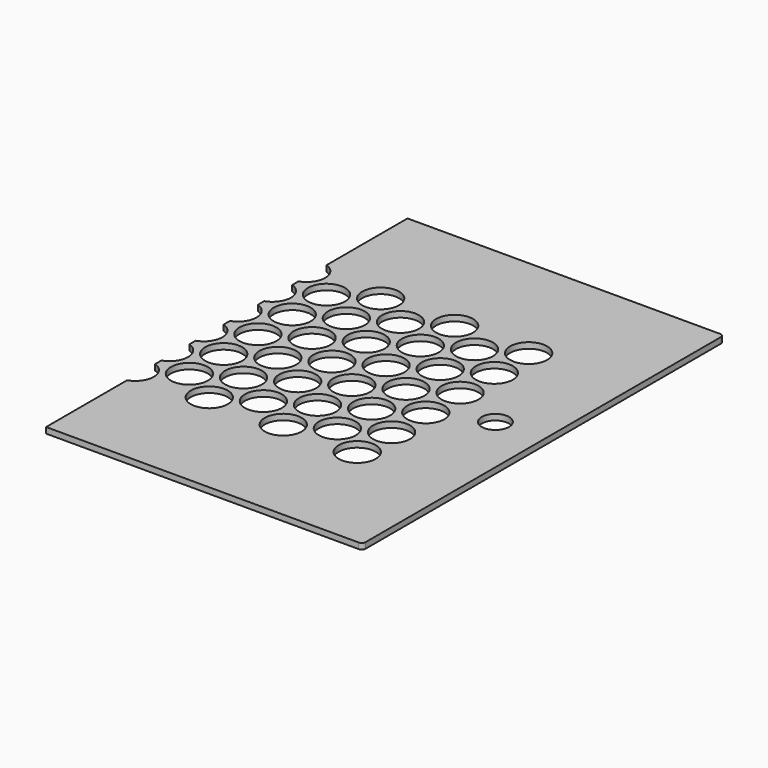
from build123d import *

# Parameters (mm, degrees)
SKETCH058_W     = 445
SKETCH058_H     = 232
PAD022_DEPTH    = 3
SKETCH059_R     = 9.5
POCKET036_DEPTH = 5
FILLET007_R     = 2
SKETCH060_R     = 7
POCKET037_DEPTH = 10.001
SKETCH079_W     = 462.91922
SKETCH079_H     = 530.257522
POCKET051_DEPTH = 5


with BuildPart() as part:
    # Sketch058 → Pad022 (new body)
    with BuildSketch(Plane.XY):
        Rectangle(SKETCH058_W, SKETCH058_H)
    extrude(amount=PAD022_DEPTH)

    # Sketch059 (on Face6 of Pad022) → Pocket036 (cut)
    with BuildSketch(Plane.XY.offset(3)):
        with Locations((-171, 55)):
            Circle(SKETCH059_R)
        with Locations((-171, 33)):
            Circle(SKETCH059_R)
        with Locations((-171, 11)):
            Circle(SKETCH059_R)
        with Locations((-171, -11)):
            Circle(SKETCH059_R)
        with Locations((-171, -33)):
            Circle(SKETCH059_R)
        with Locations((-171, -55)):
            Circle(SKETCH059_R)
        with Locations((-152, 44)):
            Circle(SKETCH059_R)
        with Locations((-152, 22)):
            Circle(SKETCH059_R)
        with Locations((-152, 0)):
            Circle(SKETCH059_R)
        with Locations((-152, -22)):
            Circle(SKETCH059_R)
        with Locations((-152, -44)):
            Circle(SKETCH059_R)
        with Locations((-133, 55)):
            Circle(SKETCH059_R)
        with Locations((-133, 33)):
            Circle(SKETCH059_R)
        with Locations((-133, 11)):
            Circle(SKETCH059_R)
        with Locations((-133, -11)):
            Circle(SKETCH059_R)
        with Locations((-133, -33)):
            Circle(SKETCH059_R)
        with Locations((-133, -55)):
            Circle(SKETCH059_R)
        with Locations((-114, 44)):
            Circle(SKETCH059_R)
        with Locations((-114, 22)):
            Circle(SKETCH059_R)
        with Locations((-114, 0)):
            Circle(SKETCH059_R)
        with Locations((-114, -22)):
            Circle(SKETCH059_R)
        with Locations((-114, -44)):
            Circle(SKETCH059_R)
        with Locations((-95, 55)):
            Circle(SKETCH059_R)
        with Locations((-95, 33)):
            Circle(SKETCH059_R)
        with Locations((-95, 11)):
            Circle(SKETCH059_R)
        with Locations((-95, -11)):
            Circle(SKETCH059_R)
        with Locations((-95, -33)):
            Circle(SKETCH059_R)
        with Locations((-95, -55)):
            Circle(SKETCH059_R)
        with Locations((-76, -44)):
            Circle(SKETCH059_R)
        with Locations((-76, -22)):
            Circle(SKETCH059_R)
        with Locations((-76, 0)):
            Circle(SKETCH059_R)
        with Locations((-76, 22)):
            Circle(SKETCH059_R)
        with Locations((-76, 44)):
            Circle(SKETCH059_R)
        with Locations((-57, 55)):
            Circle(SKETCH059_R)
        with Locations((-57, 33)):
            Circle(SKETCH059_R)
        with Locations((-57, 11)):
            Circle(SKETCH059_R)
        with Locations((-57, -11)):
            Circle(SKETCH059_R)
        with Locations((-57, -33)):
            Circle(SKETCH059_R)
        with Locations((-38, 44)):
            Circle(SKETCH059_R)
        with Locations((-38, 22)):
            Circle(SKETCH059_R)
        with Locations((-38, 0)):
            Circle(SKETCH059_R)
        with Locations((-38, -22)):
            Circle(SKETCH059_R)
        with Locations((-38, -44)):
            Circle(SKETCH059_R)
        with Locations((-57, -55)):
            Circle(SKETCH059_R)
        with Locations((-19, 55)):
            Circle(SKETCH059_R)
        with Locations((-19, 33)):
            Circle(SKETCH059_R)
        with Locations((-19, 11)):
            Circle(SKETCH059_R)
        with Locations((-19, -11)):
            Circle(SKETCH059_R)
        with Locations((-19, -33)):
            Circle(SKETCH059_R)
        with Locations((-19, -55)):
            Circle(SKETCH059_R)
        with Locations((0, -44)):
            Circle(SKETCH059_R)
        with Locations((0, -22)):
            Circle(SKETCH059_R)
        Circle(SKETCH059_R)
        with Locations((0, 22)):
            Circle(SKETCH059_R)
        with Locations((0, 44)):
            Circle(SKETCH059_R)
        with Locations((19, 55)):
            Circle(SKETCH059_R)
        with Locations((19, 33)):
            Circle(SKETCH059_R)
        with Locations((19, 11)):
            Circle(SKETCH059_R)
        with Locations((19, -11)):
            Circle(SKETCH059_R)
        with Locations((19, -33)):
            Circle(SKETCH059_R)
        with Locations((19, -55)):
            Circle(SKETCH059_R)
        with Locations((38, -44)):
            Circle(SKETCH059_R)
        with Locations((38, -22)):
            Circle(SKETCH059_R)
        with Locations((38, 0)):
            Circle(SKETCH059_R)
        with Locations((38, 22)):
            Circle(SKETCH059_R)
        with Locations((38, 44)):
            Circle(SKETCH059_R)
        with Locations((57, 55)):
            Circle(SKETCH059_R)
        with Locations((57, 33)):
            Circle(SKETCH059_R)
        with Locations((57, 11)):
            Circle(SKETCH059_R)
        with Locations((57, -11)):
            Circle(SKETCH059_R)
        with Locations((76, 0)):
            Circle(SKETCH059_R)
        with Locations((76, 22)):
            Circle(SKETCH059_R)
        with Locations((76, 44)):
            Circle(SKETCH059_R)
        with Locations((57, -33)):
            Circle(SKETCH059_R)
        with Locations((57, -55)):
            Circle(SKETCH059_R)
        with Locations((76, -44)):
            Circle(SKETCH059_R)
        with Locations((76, -22)):
            Circle(SKETCH059_R)
        with Locations((95, 55)):
            Circle(SKETCH059_R)
        with Locations((95, 33)):
            Circle(SKETCH059_R)
        with Locations((95, 11)):
            Circle(SKETCH059_R)
        with Locations((95, -11)):
            Circle(SKETCH059_R)
        with Locations((95, -33)):
            Circle(SKETCH059_R)
        with Locations((95, -55)):
            Circle(SKETCH059_R)
        with Locations((114, 44)):
            Circle(SKETCH059_R)
        with Locations((114, 22)):
            Circle(SKETCH059_R)
        with Locations((114, 0)):
            Circle(SKETCH059_R)
        with Locations((114, -22)):
            Circle(SKETCH059_R)
        with Locations((114, -44)):
            Circle(SKETCH059_R)
        with Locations((133, 55)):
            Circle(SKETCH059_R)
        with Locations((133, 33)):
            Circle(SKETCH059_R)
        with Locations((133, 11)):
            Circle(SKETCH059_R)
        with Locations((133, -11)):
            Circle(SKETCH059_R)
        with Locations((133, -33)):
            Circle(SKETCH059_R)
        with Locations((133, -55)):
            Circle(SKETCH059_R)
        with Locations((152, 44)):
            Circle(SKETCH059_R)
        with Locations((152, 22)):
            Circle(SKETCH059_R)
        with Locations((152, 0)):
            Circle(SKETCH059_R)
        with Locations((152, -22)):
            Circle(SKETCH059_R)
        with Locations((152, -44)):
            Circle(SKETCH059_R)
        with Locations((171, 55)):
            Circle(SKETCH059_R)
        with Locations((171, 33)):
            Circle(SKETCH059_R)
        with Locations((171, 11)):
            Circle(SKETCH059_R)
        with Locations((171, -11)):
            Circle(SKETCH059_R)
        with Locations((171, -33)):
            Circle(SKETCH059_R)
        with Locations((171, -55)):
            Circle(SKETCH059_R)
    extrude(amount=-POCKET036_DEPTH, mode=Mode.SUBTRACT)

    # Fillet007
    fillet007_edges = [part.edges().sort_by_distance(p)[0] for p in [
        (-222.5, -116, 1.5),
        (222.5, -116, 1.5),
        (222.5, 116, 1.5),
        (-222.5, 116, 1.5),
    ]]
    fillet(fillet007_edges, radius=FILLET007_R)

    # Sketch060 → Pocket037 (cut, through all)
    with BuildSketch(Plane.XY.offset(10)):
        with Locations((197.939534, 0)):
            Circle(SKETCH060_R)
    extrude(amount=-POCKET037_DEPTH, mode=Mode.SUBTRACT)

    # Sketch079 (on Face5 of Pocket037) → Pocket051 (cut)
    with BuildSketch(Plane.XY.offset(3)):
        with Locations((-171.45961, -16.154991)):
            Rectangle(SKETCH079_W, SKETCH079_H)
    extrude(amount=-POCKET051_DEPTH, mode=Mode.SUBTRACT)


solid = part.part
